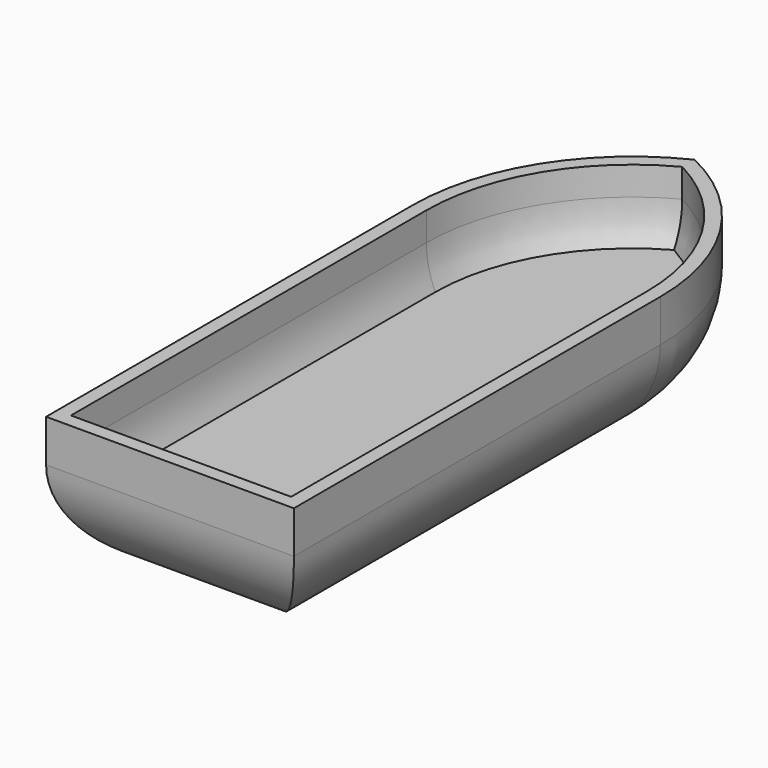
from build123d import *

# Parameters (mm, degrees)
F0_W     = 45.5884300172
F0_H     = 84.2695254833
F1_DEPTH = 25.4
F2_T     = -2.54
F3_R     = 17.6135227398
F4_W     = 5.2813845376
F4_H     = 64.1160027434
F5_DEPTH = 7.62
F6_W     = 40.5230503529
F6_H     = 81.5065950155
F7_DEPTH = 2.54


with BuildPart() as f1:
    # F0 (on Top) → F1 (new body)
    with BuildSketch(Plane.XY):
        with BuildLine():
            Line((-22.7942150086, 27.7444738895), (22.7942150086, 27.7444738895))
            ThreePointArc((22.7942150086, 27.7444738895), (16.6249298955, 49.2094594083), (0, 64.1231238842))
            ThreePointArc((0, 64.1231238842), (-16.6249298955, 49.2094594083), (-22.7942150086, 27.7444738895))
        make_face()
        with Locations((0, -14.3902888522)):
            Rectangle(F0_W, F0_H)
    extrude(amount=F1_DEPTH)

    # F2
    f2_openings = [f1.faces().sort_by_distance(p)[0] for p in [
        (0, -1.046307, 25.4),
    ]]
    offset(amount=F2_T, openings=f2_openings)

    # F3
    f3_edges = [f1.edges().sort_by_distance(p)[0] for p in [
        (-22.794215, -14.390289, 0),
        (-16.62493, 49.209459, 0),
        (20.254215, -13.120289, 2.54),
        (14.797736, 47.332252, 2.54),
        (-20.254215, -13.120289, 2.54),
        (-14.797736, 47.332252, 2.54),
        (0, -56.525052, 0),
        (0, -53.985052, 2.54),
        (22.794215, -14.390289, 0),
        (16.62493, 49.209459, 0),
    ]]
    fillet(f3_edges, radius=F3_R)

    # F4 (on face) → F5 (join)
    with BuildSketch(Plane.XY.offset(2.54)):
        with Locations((0, -4.3135274822)):
            Rectangle(F4_W, F4_H)
    extrude(amount=F5_DEPTH)

    # F6 (on face) → F7 (join)
    with BuildSketch(Plane.XY.offset(10.16)):
        with BuildLine():
            ThreePointArc((0, 61.1299425364), (-14.9602203886, 47.3308358732), (-20.4917695373, 27.7444757521))
            Line((-20.4917695373, 27.7444757521), (20.0312808156, 27.7444757521))
            ThreePointArc((20.0312808156, 27.7444757521), (14.639260036, 47.2113810244), (0, 61.1299425364))
        make_face()
        with Locations((-0.2302443609, -13.0088217556)):
            Rectangle(F6_W, F6_H)
    extrude(amount=F7_DEPTH)


solid = f1.part
